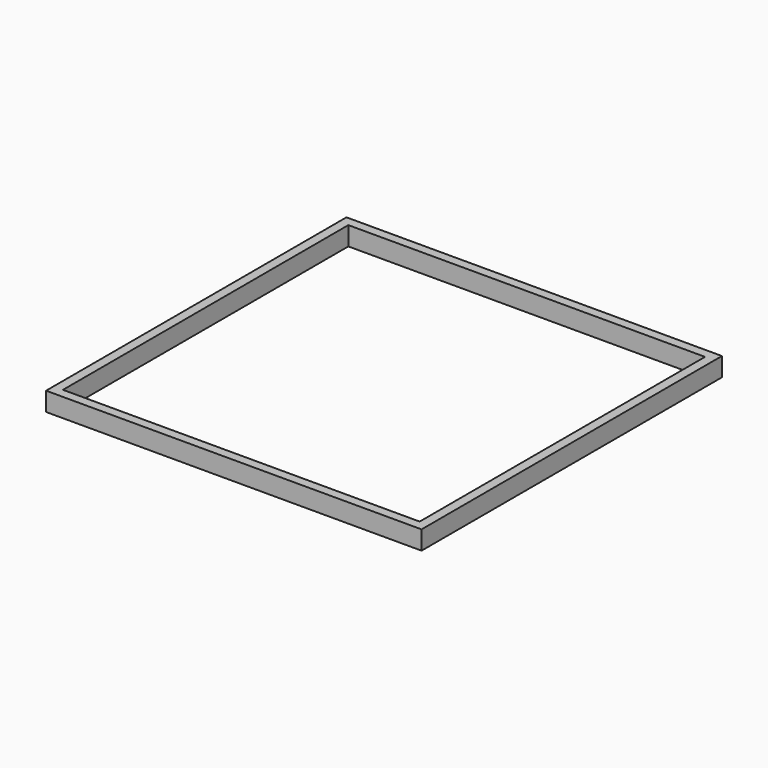
from build123d import *

# Parameters (mm, degrees)
F0_W     = 508
F0_H     = 508
F1_DEPTH = 25.4
F2_T     = -12.7
F3_DEPTH = 1396.1044084281


with BuildPart() as f1:
    # F0 (on Top) → F1 (new body)
    with BuildSketch(Plane.XY):
        with Locations((180.4774918556, 187.6424022913)):
            Rectangle(F0_W, F0_H)
    extrude(amount=F1_DEPTH)

    # F2
    f2_openings = [f1.faces().sort_by_distance(p)[0] for p in [
        (180.477492, 187.642402, 25.4),
    ]]
    offset(amount=F2_T, openings=f2_openings)

    # F3 (cut): a face of the model
    f3_faces = [f1.faces().sort_by_distance(p)[0] for p in [
        (180.4774918556, 187.6424022913, 12.7),
    ]]
    extrude(f3_faces, amount=-F3_DEPTH, mode=Mode.SUBTRACT)


solid = f1.part
